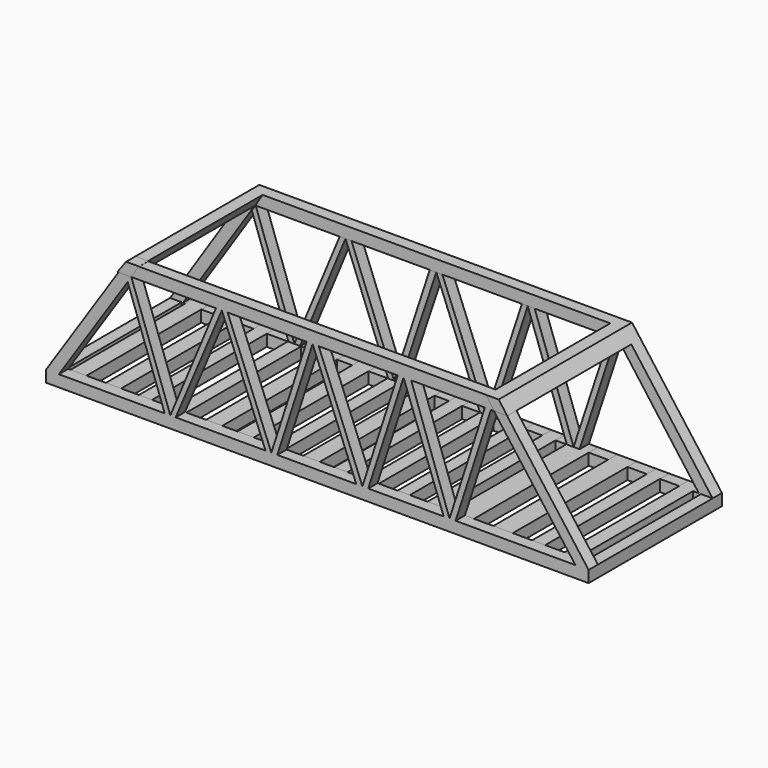
from build123d import *

# Parameters (mm, degrees)
F0_W      = 355.6
F0_H      = 7.62
F1_DEPTH  = 7.62
F2_W      = 109.22
F2_H      = 7.62
F3_DEPTH  = 7.62
F4_W      = 7.62
F4_H      = 7.62
F5_DEPTH  = 101.6
F6_W      = 7.6311019421
F6_H      = 7.62
F7_DEPTH  = 347.98
F8_W      = 7.62
F8_H      = 7.62
F9_DEPTH  = 93.98
F10_W     = 7.62
F10_H     = 7.62
F11_DEPTH = 101.6
F12_W     = 7.62
F12_H     = 7.62
F13_DEPTH = 340.36
F15_DEPTH = 7.62
F19_DEPTH = 7.62
F21_DEPTH = 127
F22_DEPTH = 25.4
F24_DEPTH = 7.62
F26_DEPTH = 7.62
F28_DEPTH = 127
F30_DEPTH = 7.62
F32_DEPTH = 7.62
F33_W     = 9.0126097202
F33_H     = 7.62
F34_DEPTH = 101.6
F33_W_2   = 8.5440192699
F33_W_3   = 12.7284739494
F33_W_4   = 14.659738946
F33_W_5   = 8.6907446384
F33_W_6   = 8.0469846725
F33_W_7   = 8.89
F33_W_8   = 10.8021089584
F33_W_9   = 8.3688609302
F33_W_10  = 10.6220152229
F33_W_11  = 8.6907395162
F33_W_12  = 8.6907390505
F33_W_13  = 10.4753140688
F33_W_14  = 9.9782571197
F36_DEPTH = 101.6
F38_DEPTH = 101.6


with BuildPart() as f1:
    # F0 (on Front) → F1 (new body)
    with BuildSketch(Plane.XZ):
        with Locations((96.3564148724, 42.3603363104)):
            Rectangle(F0_W, F0_H)
    extrude(amount=F1_DEPTH)

    # F4 (on face) → F5 (join)
    with BuildSketch(Plane(origin=(0, 0, 0), x_dir=(-1, 0, 0), z_dir=(0, 1, 0))):
        with Locations((77.6335851276, 42.3603363104)):
            Rectangle(F4_W, F4_H)
    extrude(amount=F5_DEPTH)

    # F6 (on face) → F7 (join)
    with BuildSketch(Plane.YZ.offset(-73.8235851276)):
        with Locations((97.784449029, 42.3603363104)):
            Rectangle(F6_W, F6_H)
    extrude(amount=F7_DEPTH)

    # F8 (on face) → F9 (join)
    with BuildSketch(Plane(origin=(0, 0, 0), x_dir=(-1, 0, 0), z_dir=(0, 1, 0))):
        with Locations((-270.3464148724, 42.3603363104)):
            Rectangle(F8_W, F8_H)
    extrude(amount=F9_DEPTH)


with BuildPart() as f1b:
    # F0 (on Front) → F1, piece 2 (new body)
    with BuildSketch(Plane.XZ):
        with Locations((96.3564148724, -36.8283437207)):
            Rectangle(F0_W, F0_H)
    extrude(amount=F1_DEPTH)

    # F2 (on face) → F3 (join)
    with BuildSketch(Plane(origin=(-81.4435851276, 0, 0), x_dir=(0, -1, 0), z_dir=(-1, 0, 0))):
        with Locations((-46.99, -36.8283437207)):
            Rectangle(F2_W, F2_H)
    extrude(amount=-F3_DEPTH)

    # F10 (on face) → F11 (join)
    with BuildSketch(Plane(origin=(0, 0, 0), x_dir=(-1, 0, 0), z_dir=(0, 1, 0))):
        with Locations((-270.3464148724, -36.8283437207)):
            Rectangle(F10_W, F10_H)
    extrude(amount=F11_DEPTH)

    # F12 (on face) → F13 (join)
    with BuildSketch(Plane(origin=(266.5364148724, 0, 0), x_dir=(0, -1, 0), z_dir=(-1, 0, 0))):
        with Locations((-97.79, -36.8283437207)):
            Rectangle(F12_W, F12_H)
    extrude(amount=F13_DEPTH)



with BuildPart() as f15:
    # F14 (on face) → F15 (new body)
    with BuildSketch(Plane.XZ.offset(7.62)):
        Polygon((-28.7765570873, 46.3462999023), (-81.4435851276, -33.0183437207), (-73.0533298552, -33.0183437207), (-20.3863018149, 46.3462999023), align=None)
    extrude(amount=-F15_DEPTH)

    # F16: union F1
    add(f1.part)


with BuildPart() as f19:
    # F18 (on face) → F19 (new body)
    with BuildSketch(Plane(origin=(0, 101.6, 0), x_dir=(-1, 0, 0), z_dir=(0, 1, 0))):
        Polygon((72.918780148, -33.0183437207), (81.4435851276, -33.0183437207), (29.6994745731, 45.8784773946), (20.9438409656, 45.8784773946), align=None)
    extrude(amount=-F19_DEPTH)


with BuildPart() as f21_tool:
    # F20 (on face) → F21 (new body)
    with BuildSketch(Plane.XZ.offset(7.62)):
        Polygon((-36.085575819, 36.6132296622), (-29.0022120739, 46.2723635137), (-19.249342382, 46.2723635137), (-19.249342382, 49.2820776999), (-28.9176758379, 49.2820776999), (-88.5946303606, 49.2820776999), (-88.5946303606, 34.1127961874), align=None)
    extrude(amount=-F21_DEPTH)


with BuildPart() as f15_1:
    add(f15.part)

    # F21: cut by f21_tool
    add(f21_tool.part, mode=Mode.SUBTRACT)

    # F17 (on face) → F22 (cut)
    with BuildSketch(Plane.XZ.offset(7.62)):
        Polygon((-81.4435851276, 38.5503363104), (-33.9500224284, 38.5503363104), (-28.8933279692, 46.1703363104), (-81.4435851276, 46.1703363104), align=None)
    extrude(amount=-F22_DEPTH, mode=Mode.SUBTRACT)


with BuildPart() as f19_1:
    add(f19.part)

    # F21: cut by f21_tool
    add(f21_tool.part, mode=Mode.SUBTRACT)


with BuildPart() as f1b_1:
    add(f1b.part)

    add(f15_1.part)  # F24 merges F15
    # F23 (on face) → F24 (join)
    with BuildSketch(Plane.XZ.offset(7.62)):
        Polygon((265.5204148724, -33.0183437207), (274.1564148724, -33.0183437207), (214.9689495564, 46.1896844208), (206.3329495564, 46.1896844208), align=None)
    extrude(amount=-F24_DEPTH)

    # F25 (on face) → F26 (join)
    with BuildSketch(Plane(origin=(0, 101.6, 0), x_dir=(-1, 0, 0), z_dir=(0, 1, 0))):
        Polygon((-214.9689495564, 46.5115644038), (-274.1564148724, -33.0183437207), (-265.182107687, -33.0183437207), (-206.2782049179, 46.5115644038), align=None)
    extrude(amount=-F26_DEPTH)

    # F27 (on face) → F28 (cut)
    with BuildSketch(Plane(origin=(0, 101.6, 0), x_dir=(-1, 0, 0), z_dir=(0, 1, 0))):
        Polygon((-277.3765325546, 38.5503363104), (-220.8938264078, 38.5503363104), (-215.2228971141, 46.1703363104), (-206.1925083399, 46.1703363104), (-206.1925083399, 46.75905779), (-277.3765325546, 46.1703363104), align=None)
    extrude(amount=-F28_DEPTH, mode=Mode.SUBTRACT)

    # F29 (on face) → F30 (join)
    with BuildSketch(Plane.XZ.offset(7.62)):
        Polygon((-3.7071830225, -33.0183437207), (0, -33.0183437207), (-25.559767156, 38.5503363104), (-27.9698876757, 34.9184937088), align=None)
        Polygon((0, -33.0183437207), (3.4942415077, -33.0183437207), (33.7508916855, 38.5503363104), (29.888343066, 38.5503363104), align=None)
        Polygon((37.5608916855, 38.5503363104), (33.7508916855, 38.5503363104), (62.3947270215, -33.0183437207), (66.2047270215, -33.0183437207), align=None)
        Polygon((89.3472060561, 38.5503363104), (66.2047270215, -33.0183437207), (70.0983282212, -33.0183437207), (93.2408072559, 38.5503363104), align=None)
        Polygon((97.2470901906, 38.5503363104), (93.2408072559, 38.5503363104), (121.8846425918, -33.0183437207), (125.8909255266, -33.0183437207), align=None)
        Polygon((149.0334045613, 38.5503363104), (125.8909255266, -33.0183437207), (129.7009255266, -33.0183437207), (152.8434045613, 38.5503363104), align=None)
        Polygon((206.1248045886, 38.5503363104), (182.9823255539, -33.0183437207), (186.9704801118, -33.0183437207), (210.1129591465, 38.5503363104), align=None)
        Polygon((157.8648045886, 38.5503363104), (152.8434045613, 38.5503363104), (179.1540682316, -33.0183437207), (182.9823255539, -33.0183437207), align=None)
    extrude(amount=-F30_DEPTH)

    # F35 (on face) → F36 (join)
    with BuildSketch(Plane.XZ.offset(-93.9688980579)):
        Polygon((-20.7985322922, 46.1703363104), (-29.0770320115, 46.1703363104), (-34.6650311601, 38.5503363104), (-25.5608484149, 38.5503363104), align=None)
    extrude(amount=F36_DEPTH)

    # F37 (on face) → F38 (join)
    with BuildSketch(Plane.XZ.offset(-93.9688980579)):
        Polygon((220.8938264078, 38.5503363104), (215.2228971141, 46.1703363104), (207.066744566, 46.1703363104), (212.4430835247, 38.5503363104), align=None)
    extrude(amount=F38_DEPTH)


with BuildPart() as f32:
    # F31 (on face) → F32 (new body)
    with BuildSketch(Plane(origin=(0, 101.6, 0), x_dir=(-1, 0, 0), z_dir=(0, 1, 0))):
        Polygon((-183.0288916826, -33.0183437207), (-206.5580372238, 38.5503363104), (-210.3680372238, 38.5503363104), (-186.9696676731, -33.0183437207), align=None)
    extrude(amount=-F32_DEPTH)


with BuildPart() as f32b:
    # F31 (on face) → F32, piece 2 (new body)
    with BuildSketch(Plane(origin=(0, 101.6, 0), x_dir=(-1, 0, 0), z_dir=(0, 1, 0))):
        Polygon((-157.5524468155, 38.5503363104), (-183.0288916826, -33.0183437207), (-178.5955131054, -33.0183437207), (-152.9804468155, 38.5503363104), align=None)
    extrude(amount=-F32_DEPTH)


with BuildPart() as f32c:
    # F31 (on face) → F32, piece 3 (new body)
    with BuildSketch(Plane(origin=(0, 101.6, 0), x_dir=(-1, 0, 0), z_dir=(0, 1, 0))):
        Polygon((-149.1704468155, 38.5503363104), (-152.9804468155, 38.5503363104), (-129.5820772648, -33.0183437207), (-125.6413012743, -33.0183437207), align=None)
    extrude(amount=-F32_DEPTH)


with BuildPart() as f32d:
    # F31 (on face) → F32, piece 4 (new body)
    with BuildSketch(Plane(origin=(0, 101.6, 0), x_dir=(-1, 0, 0), z_dir=(0, 1, 0))):
        Polygon((-97.0136084829, 38.5503363104), (-125.6413012743, -33.0183437207), (-121.7005252838, -33.0183437207), (-93.0728324924, 38.5503363104), align=None)
    extrude(amount=-F32_DEPTH)


with BuildPart() as f32e:
    # F31 (on face) → F32, piece 5 (new body)
    with BuildSketch(Plane(origin=(0, 101.6, 0), x_dir=(-1, 0, 0), z_dir=(0, 1, 0))):
        Polygon((-88.7548324924, 38.5503363104), (-93.0728324924, 38.5503363104), (-69.1664629417, -33.0183437207), (-65.3564629417, -33.0183437207), align=None)
    extrude(amount=-F32_DEPTH)


with BuildPart() as f32f:
    # F31 (on face) → F32, piece 6 (new body)
    with BuildSketch(Plane(origin=(0, 101.6, 0), x_dir=(-1, 0, 0), z_dir=(0, 1, 0))):
        Polygon((-37.4663881958, 38.5503363104), (-65.3564629417, -33.0183437207), (-61.5464629417, -33.0183437207), (-33.52560848, 38.5503363104), align=None)
    extrude(amount=-F32_DEPTH)


with BuildPart() as f32g:
    # F31 (on face) → F32, piece 7 (new body)
    with BuildSketch(Plane(origin=(0, 101.6, 0), x_dir=(-1, 0, 0), z_dir=(0, 1, 0))):
        Polygon((-29.71560848, 38.5503363104), (-33.52560848, 38.5503363104), (-3.81, -33.0183437207), (0, -33.0183437207), align=None)
    extrude(amount=-F32_DEPTH)


with BuildPart() as f32h:
    # F31 (on face) → F32, piece 8 (new body)
    with BuildSketch(Plane(origin=(0, 101.6, 0), x_dir=(-1, 0, 0), z_dir=(0, 1, 0))):
        Polygon((25.3397766501, 38.5503363104), (0, -33.0183437207), (3.81, -33.0183437207), (27.8728670136, 34.943882376), align=None)
    extrude(amount=-F32_DEPTH)


with BuildPart() as f34:
    # F33 (on face) → F34 (new body)
    with BuildSketch(Plane(origin=(0, 101.6, 0), x_dir=(-1, 0, 0), z_dir=(0, 1, 0))):
        with Locations((-256.8132430315, -36.8283437207)):
            Rectangle(F33_W, F33_H)
    extrude(amount=-F34_DEPTH)


with BuildPart() as f34b:
    # F33 (on face) → F34, piece 2 (new body)
    with BuildSketch(Plane(origin=(0, 101.6, 0), x_dir=(-1, 0, 0), z_dir=(0, 1, 0))):
        with Locations((-235.3349285364, -36.8283437207)):
            Rectangle(F33_W_2, F33_H)
    extrude(amount=-F34_DEPTH)


with BuildPart() as f34c:
    # F33 (on face) → F34, piece 3 (new body)
    with BuildSketch(Plane(origin=(0, 101.6, 0), x_dir=(-1, 0, 0), z_dir=(0, 1, 0))):
        with Locations((-211.9986819267, -36.8283437207)):
            Rectangle(F33_W_3, F33_H)
    extrude(amount=-F34_DEPTH)


with BuildPart() as f34d:
    # F33 (on face) → F34, piece 4 (new body)
    with BuildSketch(Plane(origin=(0, 101.6, 0), x_dir=(-1, 0, 0), z_dir=(0, 1, 0))):
        with Locations((-185.604575479, -36.8283437207)):
            Rectangle(F33_W_4, F33_H)
    extrude(amount=-F34_DEPTH)


with BuildPart() as f34e:
    # F33 (on face) → F34, piece 5 (new body)
    with BuildSketch(Plane(origin=(0, 101.6, 0), x_dir=(-1, 0, 0), z_dir=(0, 1, 0))):
        with Locations((-166.8479889631, -36.8283437207)):
            Rectangle(F33_W_5, F33_H)
    extrude(amount=-F34_DEPTH)


with BuildPart() as f34f:
    # F33 (on face) → F34, piece 6 (new body)
    with BuildSketch(Plane(origin=(0, 101.6, 0), x_dir=(-1, 0, 0), z_dir=(0, 1, 0))):
        with Locations((-146.8914747238, -36.8283437207)):
            Rectangle(F33_W_6, F33_H)
    extrude(amount=-F34_DEPTH)


with BuildPart() as f34g:
    # F33 (on face) → F34, piece 7 (new body)
    with BuildSketch(Plane(origin=(0, 101.6, 0), x_dir=(-1, 0, 0), z_dir=(0, 1, 0))):
        with Locations((-126.1499670601, -36.8283437207)):
            Rectangle(F33_W_7, F33_H)
    extrude(amount=-F34_DEPTH)


with BuildPart() as f34h:
    # F33 (on face) → F34, piece 8 (new body)
    with BuildSketch(Plane(origin=(0, 101.6, 0), x_dir=(-1, 0, 0), z_dir=(0, 1, 0))):
        with Locations((-105.6909188628, -36.8283437207)):
            Rectangle(F33_W_5, F33_H)
    extrude(amount=-F34_DEPTH)


with BuildPart() as f34i:
    # F33 (on face) → F34, piece 9 (new body)
    with BuildSketch(Plane(origin=(0, 101.6, 0), x_dir=(-1, 0, 0), z_dir=(0, 1, 0))):
        with Locations((-86.4682068005, -36.8283437207)):
            Rectangle(F33_W_8, F33_H)
    extrude(amount=-F34_DEPTH)


with BuildPart() as f34j:
    # F33 (on face) → F34, piece 10 (new body)
    with BuildSketch(Plane(origin=(0, 101.6, 0), x_dir=(-1, 0, 0), z_dir=(0, 1, 0))):
        with Locations((-65.2950648218, -36.8283437207)):
            Rectangle(F33_W_9, F33_H)
    extrude(amount=-F34_DEPTH)


with BuildPart() as f34k:
    # F33 (on face) → F34, piece 11 (new body)
    with BuildSketch(Plane(origin=(0, 101.6, 0), x_dir=(-1, 0, 0), z_dir=(0, 1, 0))):
        Polygon((-37.9353240132, -33.0183437207), (-48.5573373735, -33.0183437207), (-48.5573373735, -40.6383437207), (-40.5103564262, -40.6383437207), (-37.9353240132, -40.6383437207), align=None)
    extrude(amount=-F34_DEPTH)


with BuildPart() as f34l:
    # F33 (on face) → F34, piece 12 (new body)
    with BuildSketch(Plane(origin=(0, 101.6, 0), x_dir=(-1, 0, 0), z_dir=(0, 1, 0))):
        with Locations((-22.6460536942, -36.8283437207)):
            Rectangle(F33_W_10, F33_H)
    extrude(amount=-F34_DEPTH)


with BuildPart() as f34m:
    # F33 (on face) → F34, piece 13 (new body)
    with BuildSketch(Plane(origin=(0, 101.6, 0), x_dir=(-1, 0, 0), z_dir=(0, 1, 0))):
        with Locations((-0.114506809, -36.8283437207)):
            Rectangle(F33_W_11, F33_H)
    extrude(amount=-F34_DEPTH)


with BuildPart() as f34n:
    # F33 (on face) → F34, piece 14 (new body)
    with BuildSketch(Plane(origin=(0, 101.6, 0), x_dir=(-1, 0, 0), z_dir=(0, 1, 0))):
        with Locations((22.417052649, -36.8283437207)):
            Rectangle(F33_W_12, F33_H)
    extrude(amount=-F34_DEPTH)


with BuildPart() as f34o:
    # F33 (on face) → F34, piece 15 (new body)
    with BuildSketch(Plane(origin=(0, 101.6, 0), x_dir=(-1, 0, 0), z_dir=(0, 1, 0))):
        with Locations((66.2659896374, -36.8283437207)):
            Rectangle(F33_W_13, F33_H)
    extrude(amount=-F34_DEPTH)


with BuildPart() as f34p:
    # F33 (on face) → F34, piece 16 (new body)
    with BuildSketch(Plane(origin=(0, 101.6, 0), x_dir=(-1, 0, 0), z_dir=(0, 1, 0))):
        with Locations((43.3392040431, -36.8283437207)):
            Rectangle(F33_W_14, F33_H)
    extrude(amount=-F34_DEPTH)


solid = Compound([f19_1.part, f1b_1.part, f32.part, f32b.part, f32c.part, f32d.part, f32e.part, f32f.part, f32g.part, f32h.part, f34.part, f34b.part, f34c.part, f34d.part, f34e.part, f34f.part, f34g.part, f34h.part, f34i.part, f34j.part, f34k.part, f34l.part, f34m.part, f34n.part, f34o.part, f34p.part])
